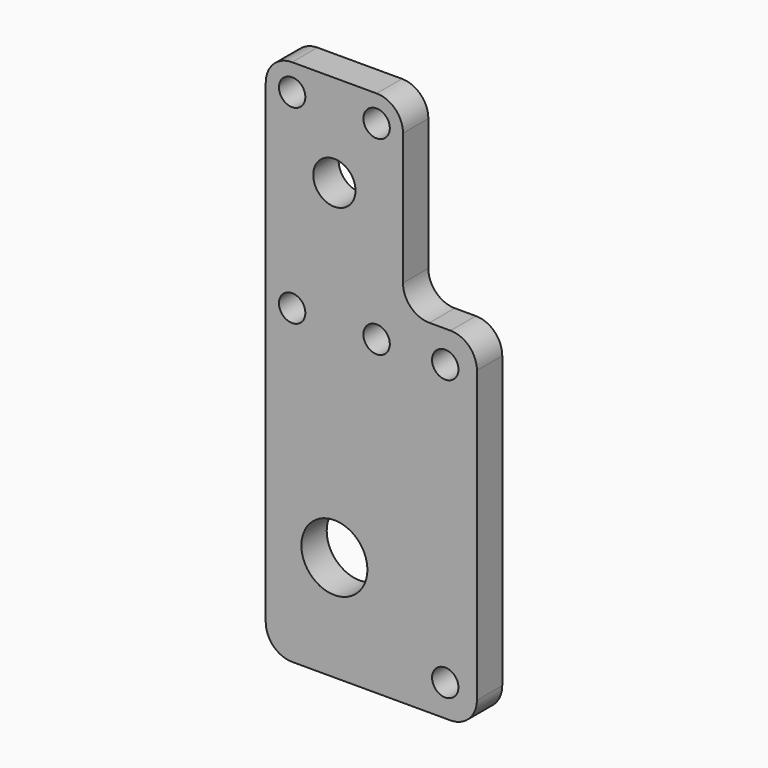
from build123d import *

# Parameters (mm, degrees)
F1_DEPTH = 6
F2_D     = 12.5
F3_D     = 5
F4_D     = 5
F5_D     = 5
F6_R     = 5
F7_D     = 8
F7_DEPTH = 20
F7_TIP   = 2.4034424761


with BuildPart() as f1:
    # F0 (on Front) → F1 (new body)
    with BuildSketch(Plane.XZ):
        Polygon((0, 27), (0, -27), (13, -27), (40, -27), (40, 38), (26, 38), (26, 73), (0, 73), align=None)
    extrude(amount=F1_DEPTH)

    # F2 (through all)
    with Locations(Plane(origin=(0, 0, 0), x_dir=(1, 0, 0), z_dir=(0, 1, 0))):
        with Locations((13, 7)):
            Hole(F2_D / 2)

    # F3 (through all)
    with Locations(Plane(origin=(0, 0, 0), x_dir=(1, 0, 0), z_dir=(0, 1, 0))):
        with Locations((34, 21), (34, -32)):
            Hole(F3_D / 2)

    # F4 (through all)
    with Locations(Plane(origin=(0, 0, 0), x_dir=(1, 0, 0), z_dir=(0, 1, 0))):
        with Locations((5, -32), (21, -32)):
            Hole(F4_D / 2)

    # F5 (through all)
    with Locations(Plane(origin=(0, 0, 0), x_dir=(1, 0, 0), z_dir=(0, 1, 0))):
        with Locations((5, -68), (21, -68)):
            Hole(F5_D / 2)

    # F6
    f6_edges = [f1.edges().sort_by_distance(p)[0] for p in [
        (0, -3, 73),
        (26, -3, 73),
        (26, -3, 38),
        (40, -3, 38),
        (40, -3, -27),
        (0, -3, -27),
    ]]
    fillet(f6_edges, radius=F6_R)

    # F7
    with Locations(Plane(origin=(0, 0, 0), x_dir=(1, 0, 0), z_dir=(0, 1, 0))):
        with Locations((13, -55.5)):
            Hole(F7_D / 2, depth=F7_DEPTH)
            with Locations((0, 0, -(F7_DEPTH + F7_TIP / 2))):  # 118° drill point
                Cone(0, F7_D / 2, F7_TIP, mode=Mode.SUBTRACT)


solid = f1.part
